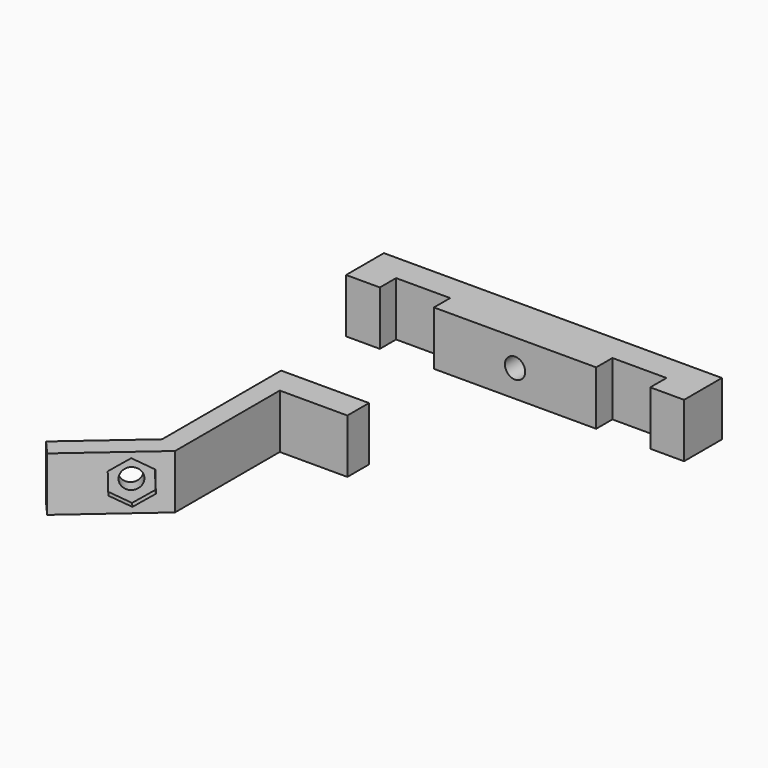
from build123d import *

# Parameters (mm, degrees)
F1_DEPTH = 8
F2_R     = 1.5
F3_DEPTH = 25
F4_DEPTH = 1
F6_DEPTH = 8
F7_R     = 1.5
F8_DEPTH = 25


with BuildPart() as f1:
    # F0 (on Top) → F1 (new body)
    with BuildSketch(Plane.XY):
        Polygon((0.743057, 11.943754), (0.743057, 15.943754), (-12.256943, 15.943754), (-12.256943, -6.056246), (-22.377042, -14.868752), (-20.406925, -17.131193), (-9.256943, -7.421873), (-9.256943, 11.943754), align=None)
    extrude(amount=F1_DEPTH)

    # F2 (on face) → F3 (cut)
    with BuildSketch(Plane(origin=(-0.316468, 0.363425, 0), x_dir=(0.754147, 0.656706, 0), z_dir=(0.656706, -0.754147, 0))):
        with Locations((-16.855082, 4)):
            Circle(F2_R)
    extrude(amount=-F3_DEPTH, mode=Mode.SUBTRACT)

    # F2 (on face) → F4 (cut)
    with BuildSketch(Plane(origin=(-0.316468, 0.363425, 0), x_dir=(0.754147, 0.656706, 0), z_dir=(0.656706, -0.754147, 0))):
        Polygon((-14.141328, 5.648901), (-16.926195, 7.17463), (-19.639949, 5.525729), (-19.568835, 2.351099), (-16.783968, 0.82537), (-14.070214, 2.474271), align=None)
        with Locations((-16.855082, 4)):
            Circle(F2_R, mode=Mode.SUBTRACT)
    extrude(amount=-F4_DEPTH, mode=Mode.SUBTRACT)


with BuildPart() as f6:
    # F5 (on Top) → F6 (new body)
    with BuildSketch(Plane.XY):
        Polygon((28.659979, 46.304398), (-21.340021, 46.304398), (-21.340021, 39.304398), (-16.340021, 39.304398), (-16.340021, 42.304398), (-8.340021, 42.304398), (-8.340021, 39.304398), (15.659979, 39.304398), (15.659979, 42.304398), (23.659979, 42.304398), (23.659979, 39.304398), (28.659979, 39.304398), align=None)
    extrude(amount=F6_DEPTH)

    # F7 (on face) → F8 (cut)
    with BuildSketch(Plane(origin=(0, 46.304398, 0), x_dir=(-1, 0, 0), z_dir=(0, 1, 0))):
        with Locations((-3.659979, 4)):
            Circle(F7_R)
    extrude(amount=-F8_DEPTH, mode=Mode.SUBTRACT)


solid = Compound([f1.part, f6.part])
